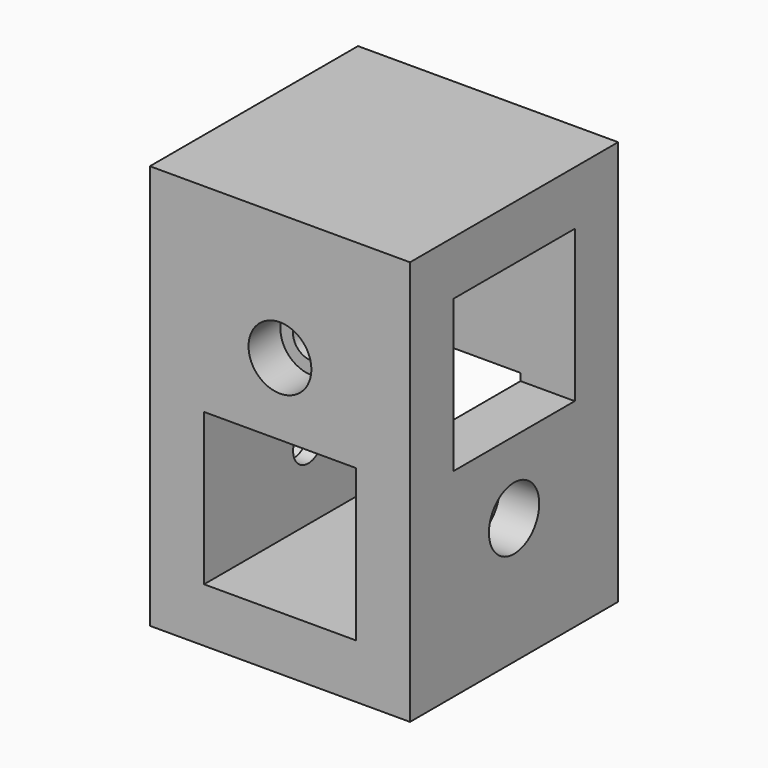
from build123d import *

# Parameters (mm, degrees)
F0_W      = 36
F0_H      = 36
F1_DEPTH  = 56
F2_W      = 21
F2_H      = 21
F2_R      = 2.6
F3_DEPTH  = 50
F4_W      = 21
F4_H      = 21
F4_R      = 2.6
F5_DEPTH  = 50
F6_R      = 4.35
F7_DEPTH  = 5.5
F8_R      = 4.35
F9_DEPTH  = 5.5
F10_R     = 4.35
F11_DEPTH = 5.5
F12_R     = 4.35
F13_DEPTH = 5.5


with BuildPart() as f1:
    # F0 (on Top) → F1 (new body)
    with BuildSketch(Plane.XY):
        with Locations((18, 18)):
            Rectangle(F0_W, F0_H)
    extrude(amount=F1_DEPTH)

    # F2 (on face) → F3 (cut)
    with BuildSketch(Plane.XZ):
        with Locations((18, 18)):
            Rectangle(F2_W, F2_H)
        with Locations((18, 38.5)):
            Circle(F2_R)
    extrude(amount=-F3_DEPTH, mode=Mode.SUBTRACT)

    # F4 (on face) → F5 (cut)
    with BuildSketch(Plane.YZ.offset(36)):
        with Locations((18, 38)):
            Rectangle(F4_W, F4_H)
        with Locations((18, 17.5)):
            Circle(F4_R)
    extrude(amount=-F5_DEPTH, mode=Mode.SUBTRACT)

    # F6 (on face) → F7 (cut)
    with BuildSketch(Plane.YZ.offset(36)):
        with Locations((18, 17.5)):
            Circle(F6_R)
    extrude(amount=-F7_DEPTH, mode=Mode.SUBTRACT)

    # F8 (on face) → F9 (cut)
    with BuildSketch(Plane(origin=(0, 0, 0), x_dir=(0, -1, 0), z_dir=(-1, 0, 0))):
        with Locations((-18, 17.5)):
            Circle(F8_R)
    extrude(amount=-F9_DEPTH, mode=Mode.SUBTRACT)

    # F10 (on face) → F11 (cut)
    with BuildSketch(Plane(origin=(0, 36, 0), x_dir=(-1, 0, 0), z_dir=(0, 1, 0))):
        with Locations((-18, 38.5)):
            Circle(F10_R)
    extrude(amount=-F11_DEPTH, mode=Mode.SUBTRACT)

    # F12 (on face) → F13 (cut)
    with BuildSketch(Plane.XZ):
        with Locations((18, 38.5)):
            Circle(F12_R)
    extrude(amount=-F13_DEPTH, mode=Mode.SUBTRACT)


solid = f1.part
